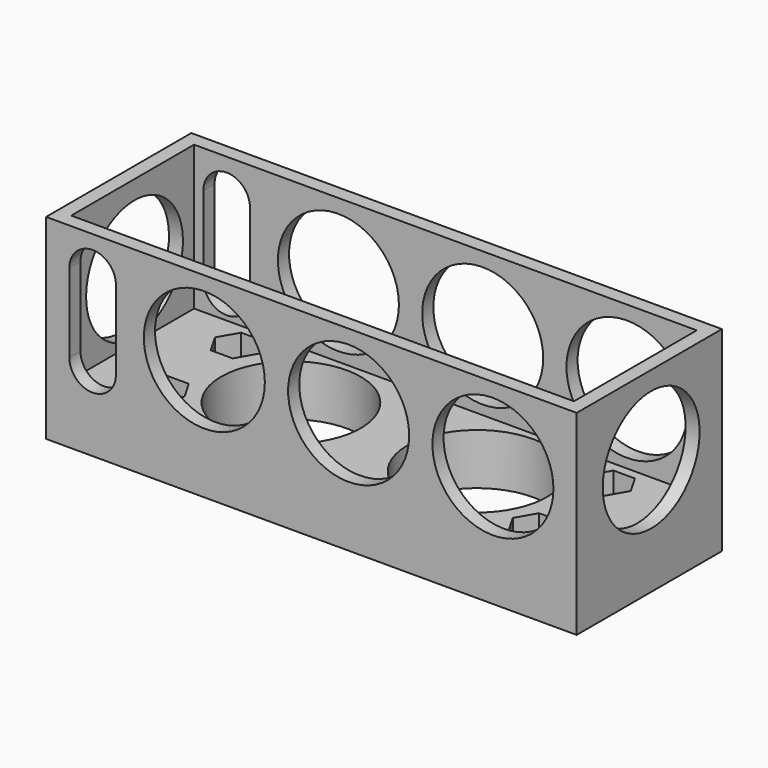
from build123d import *

# Parameters (mm, degrees)
SKETCH_W        = 114
SKETCH_H        = 42
PAD_DEPTH       = 39
SKETCH005_W     = 108
SKETCH005_H     = 33
POCKET_DEPTH    = 31
SKETCH007_R     = 13
POCKET001_DEPTH = 39.001
SKETCH006_R     = 1.75
SKETCH006_R_2   = 15
POCKET002_DEPTH = 11.001
POCKET003_DEPTH = 6
POCKET004_DEPTH = 6
SKETCH008_R     = 13
POCKET005_DEPTH = 114.001


with BuildPart() as part:
    # Sketch → Pad (new body)
    with BuildSketch(Plane.XZ):
        with Locations((0, 21)):
            Rectangle(SKETCH_W, SKETCH_H)
    extrude(amount=PAD_DEPTH)

    # Sketch005 → Pocket (cut)
    with BuildSketch(Plane(origin=(0, 0, 42), x_dir=(-1, 0, 0), z_dir=(0, 0, 1))):
        with Locations((0, 19.5)):
            Rectangle(SKETCH005_W, SKETCH005_H)
    extrude(amount=-POCKET_DEPTH, mode=Mode.SUBTRACT)

    # Sketch007 → Pocket001 (cut, through all)
    with BuildSketch(Plane.XZ.offset(39)):
        with Locations((-23, 26)):
            Circle(SKETCH007_R)
        with Locations((8, 26)):
            Circle(SKETCH007_R)
        with Locations((39, 26)):
            Circle(SKETCH007_R)
        with BuildLine():
            ThreePointArc((-42, 33.999986), (-47, 39), (-52, 33.999986))
            Line((-52, 33.999986), (-52, 17.000019))
            ThreePointArc((-52, 17.000019), (-47, 12), (-42, 17.000019))
            Line((-42, 33.999986), (-42, 17.000019))
        make_face()
    extrude(amount=-POCKET001_DEPTH, mode=Mode.SUBTRACT)

    # Sketch006 → Pocket002 (cut, through all)
    with BuildSketch(Plane(origin=(0, 0, 11), x_dir=(-1, 0, 0), z_dir=(0, 0, 1))):
        with Locations((-40, 29)):
            Circle(SKETCH006_R)
        with Locations((40, 29)):
            Circle(SKETCH006_R)
        with Locations((-40, 9)):
            Circle(SKETCH006_R)
        with Locations((40, 9)):
            Circle(SKETCH006_R)
        with Locations((-20, 19.5)):
            Circle(SKETCH006_R_2)
        with Locations((20, 19.5)):
            Circle(SKETCH006_R_2)
    extrude(amount=-POCKET002_DEPTH, mode=Mode.SUBTRACT)

    # Sketch010 → Pocket003 (cut)
    with BuildSketch(Plane(origin=(0, 0, 11), x_dir=(-1, 0, 0), z_dir=(0, 0, 1))):
        Polygon((-42.309401, 13), (-37.690599, 13), (-35.381198, 9), (-37.690599, 5), (-42.309401, 5), (-44.618802, 9), align=None)
    extrude(amount=-POCKET003_DEPTH, mode=Mode.SUBTRACT)

    # Sketch011 → Pocket004 (cut)
    with BuildSketch(Plane(origin=(0, 0, 11), x_dir=(-1, 0, 0), z_dir=(0, 0, 1))):
        Polygon((-42.367136, 33.1), (-37.632864, 33.1), (-35.265728, 29), (-37.632864, 24.9), (-42.367136, 24.9), (-44.734272, 29), align=None)
        Polygon((37.632864, 33.1), (42.367136, 33.1), (44.734272, 29), (42.367136, 24.9), (37.632864, 24.9), (35.265728, 29), align=None)
        Polygon((37.632864, 13.1), (42.367136, 13.1), (44.734272, 9), (42.367136, 4.9), (37.632864, 4.9), (35.265728, 9), align=None)
    extrude(amount=-POCKET004_DEPTH, mode=Mode.SUBTRACT)

    # Sketch008 → Pocket005 (cut, through all)
    with BuildSketch(Plane(origin=(-57, 0, 0), x_dir=(0, 0, -1), z_dir=(-1, 0, 0))):
        with Locations((-25, 19)):
            Circle(SKETCH008_R)
    extrude(amount=-POCKET005_DEPTH, mode=Mode.SUBTRACT)


solid = part.part
